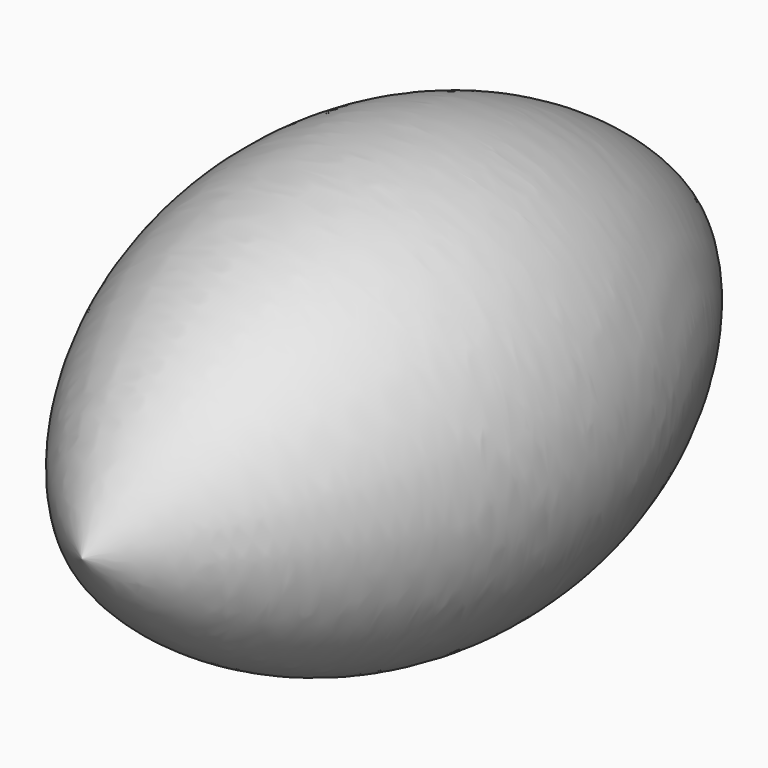
from build123d import *

# Parameters (mm, degrees)
F2_R     = 6.449315254
F2_R_2   = 7.5198867079
F3_DEPTH = 25.4


with BuildPart() as f1:
    # F0 (on Top) → F1 (revolve)
    with BuildSketch(Plane.XY):
        with BuildLine():
            Line((0, -33.8978304341), (0, 42.3021695659))
            ThreePointArc((0, 42.3021695659), (-21.5875560168, 4.2021695659), (0, -33.8978304341))
        make_face()
    revolve(axis=Axis((0, 4.2021695659, 0), (0, -1, 0)))

    # F2 (on Top) → F3 (cut)
    with BuildSketch(Plane.XY):
        with Locations((-8.876061067, 19.8900997639)):
            Circle(F2_R)
        with Locations((8.8561028242, 19.8900997639)):
            Circle(F2_R_2)
    extrude(amount=-F3_DEPTH, mode=Mode.SUBTRACT)


solid = f1.part
